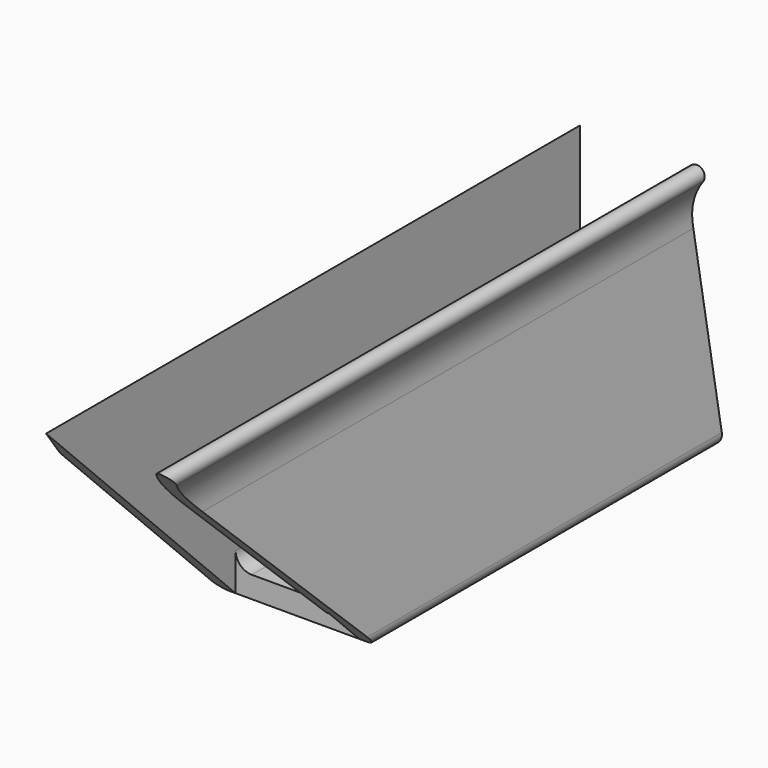
from build123d import *

# Parameters (mm, degrees)
PAD_DEPTH       = 129
FILLET_R        = 3
FILLET001_R     = 2
POCKET_DEPTH    = 29.348127
SKETCH002_W     = 23
SKETCH002_H     = 7
POCKET001_DEPTH = 49


with BuildPart() as obj1:
    # Sketch → Pad (new body)
    with BuildSketch(Plane.XZ):
        with BuildLine():
            Line((0, 0), (0, 37))
            Line((0, 37), (3, 44))
            Line((3, 44), (3, 4))
            Line((3, 4), (26, 4))
            Line((26, 4), (21, 34))
            ThreePointArc((23.448856, 44), (21.197055, 39.251589), (21, 34))
            ThreePointArc((25.84203, 42.190943), (25.551614, 44.294231), (23.448856, 44))
            ThreePointArc((25.84203, 42.190943), (24.041555, 38.293355), (24.041381, 34))
            Line((24.041381, 34), (29.708048, 0))
            Line((29.708048, 0), (0, 0))
        make_face()
    extrude(amount=PAD_DEPTH)

    # Fillet
    fillet_edges = [obj1.edges().sort_by_distance(p)[0] for p in [
        (26, -64.5, 4),
        (3, -64.5, 4),
    ]]
    fillet(fillet_edges, radius=FILLET_R)

    # Fillet001
    fillet001_edges = [obj1.edges().sort_by_distance(p)[0] for p in [
        (0, -64.5, 0),
        (29.708048, -64.5, 0),
    ]]
    fillet(fillet001_edges, radius=FILLET001_R)

    # Sketch001 (on Face2 of Fillet001) → Pocket (cut, through all)
    with BuildSketch(Plane(origin=(0, 0, 0), x_dir=(0, 0, -1), z_dir=(-1, 0, 0))):
        Polygon((0, 49), (-45, 4), (-45, 0), (0, 0), align=None)
    extrude(amount=-POCKET_DEPTH, mode=Mode.SUBTRACT)

    # Sketch002 → Pocket001 (cut)
    with BuildSketch(Plane.XZ):
        with Locations((14.5, 3.5)):
            Rectangle(SKETCH002_W, SKETCH002_H)
    extrude(amount=POCKET001_DEPTH, mode=Mode.SUBTRACT)


with BuildPart() as part_mirroring:
    # Part__Mirroring: instance of obj1
    add(obj1.part.mirror(Plane(origin=(0, -129, 2), x_dir=(1, 0, 0), z_dir=(0, 1, 0))))


with BuildPart() as part_mirroring_1:
    # Part__Mirroring placement: moved
    add(part_mirroring.part.moved(Location((0, -35, 0))))


solid = part_mirroring_1.part
